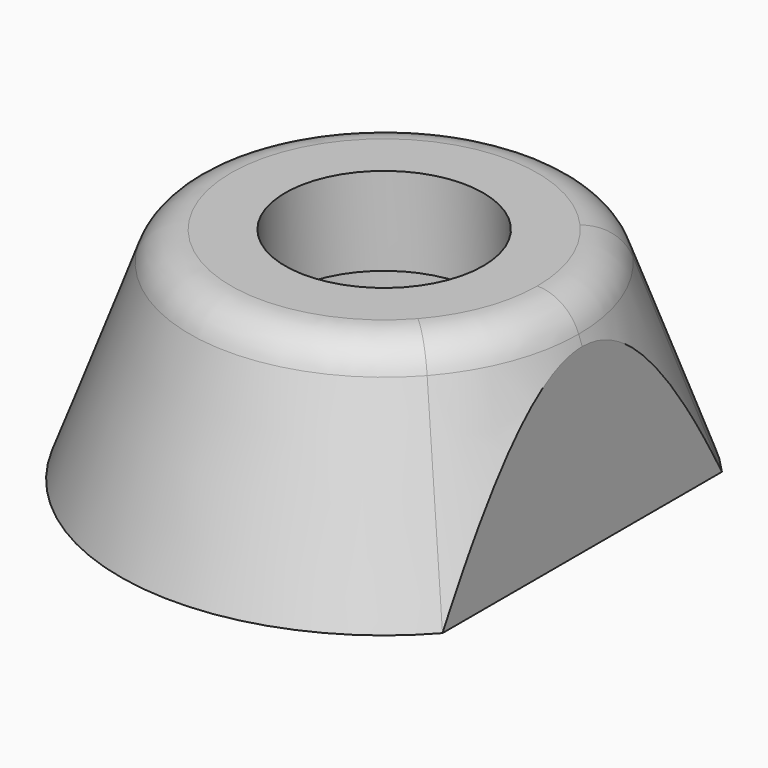
from build123d import *

# Parameters (mm, degrees)
F0_R     = 3
F0_R_2   = 2.25
F1_DEPTH = 5
F1_TAPER = 20
F2_DEPTH = 3
F3_DEPTH = 25
F4_R     = 1
F5_DEPTH = 25


with BuildPart() as f1:
    # F0 (on Top) → F1 (new body)
    with BuildSketch(Plane.XY):
        with BuildLine():
            Line((4.5, -3.9686269666), (4.5, 3.9686269666))
            ThreePointArc((4.5, 3.9686269666), (-6, 0), (4.5, -3.9686269666))
        make_face()
        Circle(F0_R, mode=Mode.SUBTRACT)
        Circle(F0_R)
        Circle(F0_R_2, mode=Mode.SUBTRACT)
        Circle(F0_R_2)
        with BuildLine():
            ThreePointArc((4.5, -3.9686269666), (5.6124860802, -2.1213203436), (6, 0))
            ThreePointArc((6, 0), (5.6124860802, 2.1213203436), (4.5, 3.9686269666))
            Line((4.5, 3.9686269666), (4.5, -3.9686269666))
        make_face()
    extrude(amount=F1_DEPTH, taper=F1_TAPER)

    # F0 (on Top) → F2 (cut)
    with BuildSketch(Plane.XY):
        Circle(F0_R)
        Circle(F0_R_2, mode=Mode.SUBTRACT)
    extrude(amount=F2_DEPTH, mode=Mode.SUBTRACT)

    # F0 (on Top) → F3 (cut)
    with BuildSketch(Plane.XY):
        Circle(F0_R_2)
    extrude(amount=F3_DEPTH, mode=Mode.SUBTRACT)

    # F4
    f4_edges = [f1.edges().sort_by_distance(p)[0] for p in [
        (-3.135112, 2.764909, 5),
    ]]
    fillet(f4_edges, radius=F4_R)

    # F0 (on Top) → F5 (cut)
    with BuildSketch(Plane.XY):
        with BuildLine():
            ThreePointArc((4.5, -3.9686269666), (5.6124860802, -2.1213203436), (6, 0))
            ThreePointArc((6, 0), (5.6124860802, 2.1213203436), (4.5, 3.9686269666))
            Line((4.5, 3.9686269666), (4.5, -3.9686269666))
        make_face()
    extrude(amount=F5_DEPTH, mode=Mode.SUBTRACT)


solid = f1.part
